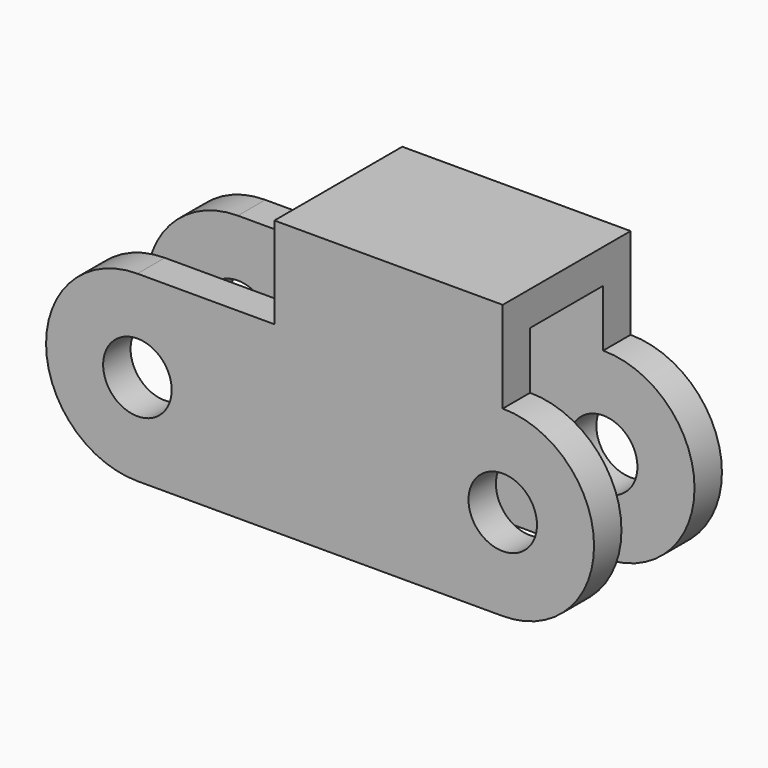
from build123d import *

# Parameters (mm, degrees)
F0_R     = 3
F0_W     = 20
F0_H     = 8
F1_DEPTH = 7
F2_W     = 8
F2_H     = 26
F3_DEPTH = 46.14689


with BuildPart() as f1:
    # F0 (on Front) → F1 (new body, symmetric)
    with BuildSketch(Plane.XZ):
        with BuildLine():
            ThreePointArc((0, -8), (8, 0), (0, 8))
            Line((0, 8), (-20, 8))
            Line((-20, 8), (-32, 8))
            ThreePointArc((-32, 8), (-40, 0), (-32, -8))
            Line((-32, -8), (0, -8))
        make_face()
        with Locations((-32, 0)):
            Circle(F0_R, mode=Mode.SUBTRACT)
        Circle(F0_R, mode=Mode.SUBTRACT)
        with Locations((-10, 12)):
            Rectangle(F0_W, F0_H)
    extrude(amount=F1_DEPTH, both=True)

    # F2 (on Right) → F3 (cut, symmetric)
    with BuildSketch(Plane.YZ):
        Rectangle(F2_W, F2_H)
    extrude(amount=F3_DEPTH, both=True, mode=Mode.SUBTRACT)


solid = f1.part
